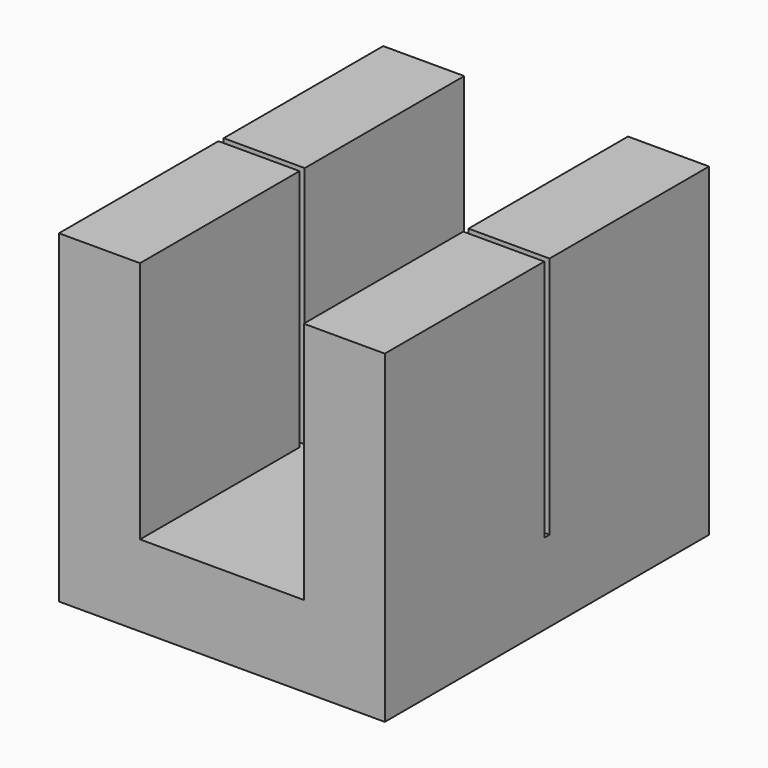
from build123d import *

# Parameters (mm, degrees)
F1_DEPTH = 50
F2_DEPTH = 0.8


with BuildPart() as f1:
    # F0 (on Front) → F1 (new body, symmetric)
    with BuildSketch(Plane.XZ):
        Polygon((-20.2, -20), (-20.2, 20), (-20.2, 40), (-40.2, 40), (-40.2, -20), align=None)
        Polygon((40.2, -20), (20.2, -20), (-20.2, -20), (-40.2, -20), (-40.2, -40), (40.2, -40), align=None)
        Polygon((20.2, 40), (20.2, 20), (20.2, -20), (40.2, -20), (40.2, 40), align=None)
    extrude(amount=F1_DEPTH, both=True)

    # F0 (on Front) → F2 (cut, symmetric)
    with BuildSketch(Plane.XZ):
        Polygon((-20.2, -20), (-20.2, 20), (-20.2, 40), (-40.2, 40), (-40.2, -20), align=None)
        Polygon((20.2, 40), (20.2, 20), (20.2, -20), (40.2, -20), (40.2, 40), align=None)
    extrude(amount=F2_DEPTH, both=True, mode=Mode.SUBTRACT)


solid = f1.part
